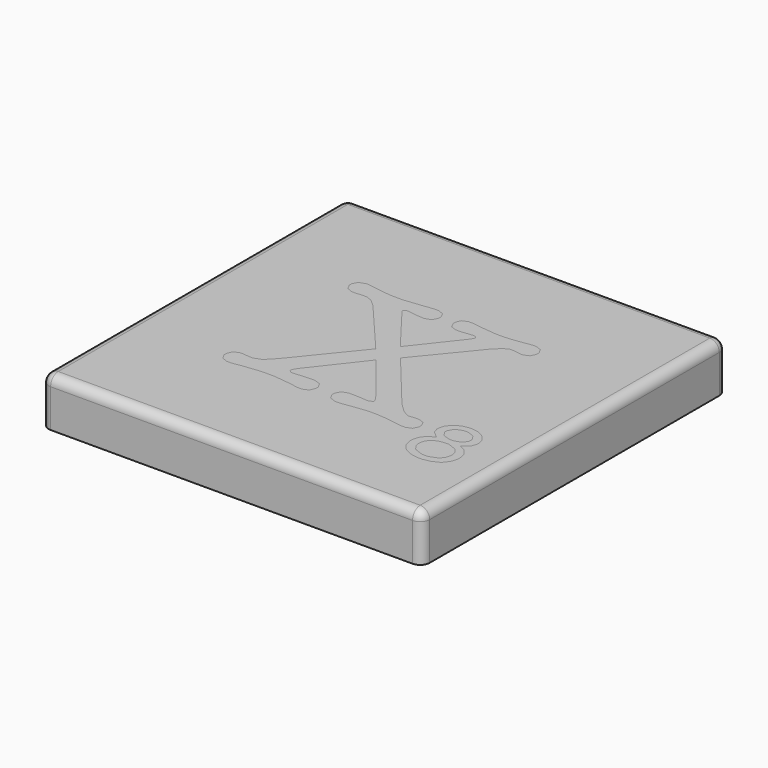
from build123d import *

# Parameters (mm, degrees)
F0_W     = 40
F0_H     = 40
F1_DEPTH = 5
F2_R     = 1
F5_DEPTH = 3


with BuildPart() as f1:
    # F0 (on Top) → F1 (new body)
    with BuildSketch(Plane.XY):
        Rectangle(F0_W, F0_H)
    extrude(amount=-F1_DEPTH)

    # F2
    f2_edges = [f1.edges().sort_by_distance(p)[0] for p in [
        (0, -20, 0),
        (20, 0, 0),
        (0, 20, 0),
        (-20, 0, 0),
        (-20, 20, -2.5),
        (20, 20, -2.5),
        (-20, -20, -2.5),
        (20, -20, -2.5),
    ]]
    fillet(f2_edges, radius=F2_R)


with BuildPart() as f5:
    # F3 (on Top) + F4 (on Top) → F5 (new body)
    with BuildSketch(Plane.XY):
        Polygon((-1.191311, 0.410667), (-5.873877, -5.3578), (-6.028233, -5.546573), (-6.678676, -6.292113), (-7.165111, -6.770294), (-7.236765, -6.825412), (-7.309815, -6.88053), (-8.020863, -7.156145), (-8.281314, -7.156145), (-8.390179, -7.156145), (-8.716772, -7.123074), (-8.771915, -7.117563), (-8.827033, -7.110654), (-9.139834, -7.077583), (-9.261119, -7.077583), (-9.445752, -7.077583), (-9.995611, -7.309104), (-10.239502, -7.829982), (-10.239502, -8.003642), (-10.239502, -8.181391), (-9.962515, -8.717458), (-9.338285, -8.955862), (-9.128811, -8.955862), (-8.922106, -8.955862), (-8.300618, -8.866276), (-8.202778, -8.849741), (-7.960233, -8.805647), (-6.000674, -8.585149), (-5.266182, -8.585149), (-4.672254, -8.585149), (-2.889072, -8.783599), (-2.672715, -8.823554), (-2.554199, -8.845601), (-1.899641, -8.955862), (-1.640561, -8.955862), (-1.453159, -8.955862), (-0.888136, -8.717458), (-0.635991, -8.181391), (-0.635991, -8.003642), (-0.635991, -7.829982), (-0.926744, -7.309104), (-1.581277, -7.077583), (-1.799006, -7.077583), (-1.94785, -7.077583), (-2.394331, -7.098259), (-2.460473, -7.10377), (-3.254223, -7.156145), (-3.86334, -7.209892), (-3.915689, -7.209892), (-4.009415, -7.209892), (-4.286377, -6.990766), (-4.286377, -6.919112), (-4.286377, -6.835064), (-4.167886, -6.587007), (-3.890874, -6.172225), (-3.810991, -6.071616), (0.053061, -1.124458), (3.994226, -6.071616), (4.0783, -6.17634), (4.371848, -6.600774), (4.497222, -6.839179), (4.497222, -6.919112), (4.497222, -6.985254), (4.17891, -7.183704), (4.07416, -7.183704), (3.889527, -7.183704), (3.068193, -7.129958), (2.992399, -7.124446), (2.394356, -7.10377), (2.169744, -7.10377), (1.965757, -7.10377), (1.355319, -7.328383), (1.083818, -7.834122), (1.083818, -8.003642), (1.083818, -8.181391), (1.367688, -8.717458), (2.00848, -8.955862), (2.222094, -8.955862), (2.505964, -8.955862), (3.360369, -8.845601), (3.492652, -8.823554), (3.703472, -8.78774), (5.237251, -8.611337), (5.820131, -8.611337), (6.093003, -8.611337), (6.911569, -8.670595), (8.029118, -8.809787), (8.281314, -8.849741), (8.391576, -8.866276), (8.975852, -8.955862), (9.207373, -8.955862), (9.400311, -8.955862), (9.980447, -8.724341), (10.239527, -8.203438), (10.239527, -8.029804), (10.239527, -7.865821), (9.99424, -7.373874), (9.443034, -7.156145), (9.259722, -7.156145), (9.16051, -7.156145), (8.862847, -7.178192), (8.83666, -7.183704), (8.678189, -7.183704), (8.656142, -7.187819), (8.537626, -7.209892), (8.492134, -7.209892), (8.256524, -7.209892), (7.553731, -6.813017), (6.591833, -5.886958), (6.375476, -5.622392), (1.402156, 0.410667), (6.058535, 6.099226), (6.212891, 6.28937), (6.911569, 6.952234), (7.442098, 7.236079), (7.619873, 7.236079), (8.113192, 7.180986), (8.175219, 7.169937), (8.235848, 7.158939), (8.591372, 7.103796), (8.730564, 7.103796), (8.913851, 7.103796), (9.465081, 7.335317), (9.710369, 7.85622), (9.710369, 8.029829), (9.710369, 8.203463), (9.437472, 8.724392), (8.827033, 8.955862), (8.624443, 8.955862), (8.439785, 8.955862), (7.88858, 8.869045), (7.778344, 8.851163), (7.530287, 8.811209), (6.460922, 8.672017), (5.722315, 8.612759), (5.477027, 8.612759), (4.891354, 8.612759), (3.1385, 8.789162), (2.935884, 8.823579), (2.833954, 8.841511), (2.182114, 8.9297), (1.931314, 8.9297), (1.746656, 8.9297), (1.195426, 8.711971), (0.951509, 8.221396), (0.951509, 8.057413), (0.951509, 7.883779), (1.216101, 7.362876), (1.811426, 7.13138), (2.009851, 7.13138), (2.281352, 7.13138), (3.099892, 7.219569), (3.228061, 7.236079), (3.258363, 7.241616), (3.525698, 7.263663), (3.624936, 7.263663), (3.710381, 7.263663), (3.968064, 7.105167), (3.968064, 7.051446), (3.968064, 6.943954), (3.791661, 6.618732), (3.757244, 6.574612), (0.131597, 1.972005), (-3.546399, 6.786855), (-3.572561, 6.822694), (-3.704869, 7.025259), (-3.704869, 7.103796), (-3.704869, 7.150684), (-3.466465, 7.289851), (-3.386506, 7.289851), (-3.269386, 7.289851), (-2.913863, 7.245756), (-2.844978, 7.236079), (-2.777439, 7.227824), (-2.149043, 7.141007), (-2.091182, 7.13138), (-1.852778, 7.13138), (-1.826616, 7.127215), (-1.675003, 7.103796), (-1.614373, 7.103796), (-1.415923, 7.103796), (-0.820623, 7.335317), (-0.556031, 7.85622), (-0.556031, 8.029829), (-0.556031, 8.199349), (-0.820623, 8.705088), (-1.415923, 8.9297), (-1.614373, 8.9297), (-1.823822, 8.9297), (-2.452218, 8.86493), (-2.540406, 8.851163), (-2.827045, 8.807069), (-4.883074, 8.586597), (-5.663057, 8.586597), (-6.003417, 8.586597), (-7.021805, 8.674786), (-7.144436, 8.691296), (-7.400747, 8.73539), (-8.328177, 8.889721), (-8.69061, 8.955862), (-8.810498, 8.955862), (-9.024087, 8.955862), (-9.664878, 8.732647), (-9.948748, 8.226882), (-9.948748, 8.057413), (-9.948748, 7.879664), (-9.678645, 7.343572), (-9.068181, 7.103796), (-8.864244, 7.103796), (-8.731936, 7.103796), (-8.333689, 7.127215), (-8.268919, 7.13138), (-8.205521, 7.135495), (-7.822438, 7.157542), (-7.673594, 7.157542), (-7.479309, 7.157542), (-6.893636, 6.892976), (-6.182563, 6.275603), (-6.032348, 6.099226), align=None)
    with BuildSketch(Plane.XY):
        Polygon((11.90917, -9.031608), (11.867819, -9.063307), (11.756211, -9.148753), (11.367591, -9.66963), (11.202237, -10.264956), (11.202237, -10.46338), (11.202237, -10.672854), (11.377243, -11.303993), (11.787911, -11.864851), (11.906402, -11.958551), (12.023546, -12.052277), (12.727711, -12.380242), (13.518717, -12.520806), (13.783309, -12.520806), (14.036852, -12.520806), (14.798903, -12.377499), (15.48516, -12.043997), (15.60233, -11.948925), (15.718078, -11.853827), (16.123208, -11.291598), (16.296842, -10.670086), (16.296842, -10.46338), (16.296842, -10.263584), (16.130117, -9.665516), (15.741497, -9.147356), (15.631261, -9.063307), (15.587141, -9.031608), (15.040076, -8.744969), (14.973909, -8.720178), (15.059354, -8.670572), (15.650539, -8.197878), (15.68361, -8.153784), (15.715309, -8.108318), (15.87792, -7.628791), (15.87792, -7.45376), (15.87792, -7.287009), (15.723564, -6.788153), (15.365297, -6.320996), (15.263291, -6.239716), (15.159964, -6.157039), (14.578431, -5.8704), (13.959687, -5.749115), (13.754353, -5.749115), (13.547648, -5.749115), (12.928904, -5.8704), (12.345999, -6.157039), (12.244018, -6.239716), (12.140666, -6.320996), (11.78377, -6.788153), (11.630812, -7.287009), (11.630812, -7.45376), (11.630812, -7.616371), (11.789282, -8.108318), (11.820981, -8.153784), (11.852655, -8.197878), (12.446609, -8.670572), (12.534798, -8.720178), (12.464516, -8.744969), align=None)
        Polygon((13.609675, -9.082586), (13.792936, -9.082586), (14.075435, -9.082586), (14.924328, -9.395412), (15.001468, -9.45881), (15.077287, -9.520812), (15.344622, -9.89564), (15.458998, -10.31319), (15.458998, -10.453754), (15.458998, -10.59292), (15.340482, -11.014611), (15.066238, -11.393579), (14.987701, -11.458324), (14.909139, -11.521722), (14.061668, -11.844175), (13.754353, -11.844175), (13.464971, -11.844175), (12.599568, -11.521722), (12.521005, -11.458324), (12.442469, -11.393579), (12.166853, -11.014611), (12.049734, -10.59292), (12.049734, -10.453754), (12.049734, -10.310422), (12.16411, -9.883244), (12.434188, -9.509788), (12.511379, -9.449158), (12.587172, -9.387157), (13.061213, -9.173543), align=None, mode=Mode.SUBTRACT)
        Polygon((13.518717, -6.424349), (13.754353, -6.424349), (13.97071, -6.424349), (14.621154, -6.662778), (14.683155, -6.710988), (14.74381, -6.757851), (15.049728, -7.260821), (15.049728, -7.444108), (15.049728, -7.598438), (14.752065, -8.062826), (14.692782, -8.105549), (14.632177, -8.1469), (13.988617, -8.359143), (13.754353, -8.359143), (13.532484, -8.359143), (12.871043, -8.1469), (12.811785, -8.105549), (12.751155, -8.062826), (12.449352, -7.616371), (12.449352, -7.45376), (12.449352, -7.280125), (12.753898, -6.763337), (12.815925, -6.715128), (12.876555, -6.666893), align=None, mode=Mode.SUBTRACT)
    extrude(amount=-F5_DEPTH)


solid = Compound([f1.part, f5.part])
